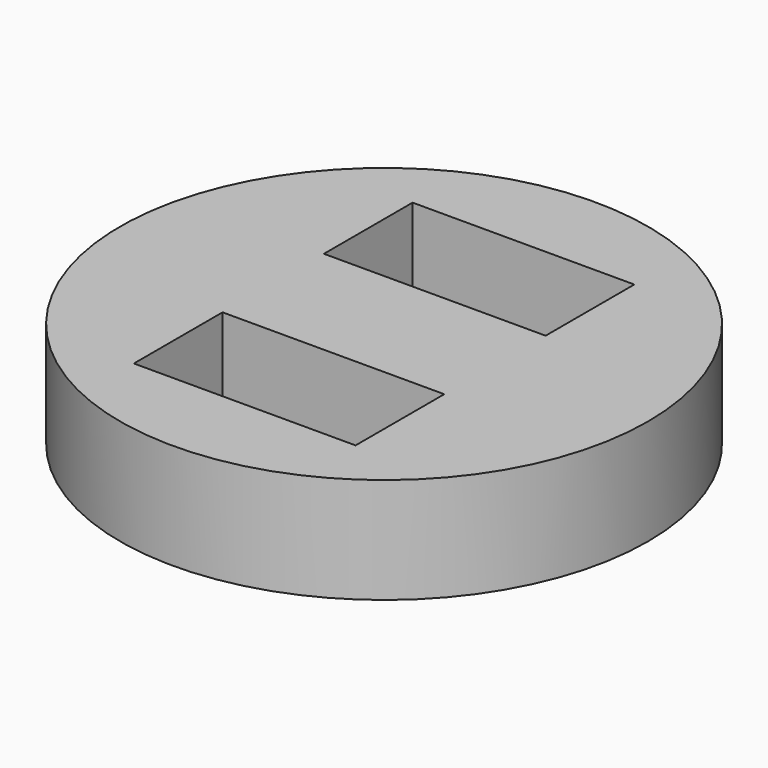
from build123d import *

# Parameters (mm, degrees)
F0_R     = 12.5
F1_DEPTH = 5
F2_W     = 10.5
F2_H     = 5.25
F3_DEPTH = 4


with BuildPart() as f1:
    # F0 (on Top) → F1 (new body)
    with BuildSketch(Plane.XY):
        Circle(F0_R)
    extrude(amount=F1_DEPTH)


with BuildPart() as f3:
    # F2 (on face) → F3 (new body)
    with BuildSketch(Plane.XY.offset(5)):
        with Locations((0, 5.625)):
            Rectangle(F2_W, F2_H)
        with Locations((0, -5.625)):
            Rectangle(F2_W, F2_H)
    extrude(amount=-F3_DEPTH)


with BuildPart() as f1_1:
    add(f1.part)

    # F4: cut F3
    add(f3.part, mode=Mode.SUBTRACT)


solid = f1_1.part
